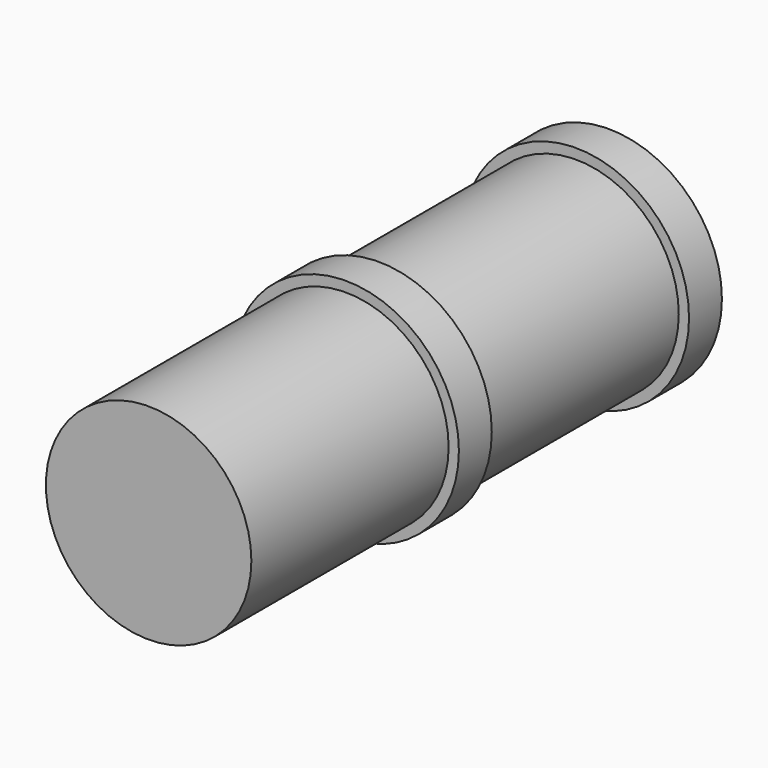
from build123d import *

# Parameters (mm, degrees)
F0_R     = 2.75
F1_DEPTH = 7
F2_R     = 2.75
F2_R_2   = 2.5
F3_DEPTH = 6
F4_R     = 2.75
F4_R_2   = 2.5
F5_DEPTH = 6


with BuildPart() as f1:
    # F0 (on Front) → F1 (new body, symmetric)
    with BuildSketch(Plane.XZ):
        Circle(F0_R)
    extrude(amount=F1_DEPTH, both=True)

    # F2 (on face) → F3 (cut)
    with BuildSketch(Plane.XZ.offset(7)):
        Circle(F2_R)
        Circle(F2_R_2, mode=Mode.SUBTRACT)
    extrude(amount=-F3_DEPTH, mode=Mode.SUBTRACT)

    # F4 (on Front) → F5 (cut)
    with BuildSketch(Plane.XZ):
        Circle(F4_R)
        Circle(F4_R_2, mode=Mode.SUBTRACT)
    extrude(amount=-F5_DEPTH, mode=Mode.SUBTRACT)


solid = f1.part
